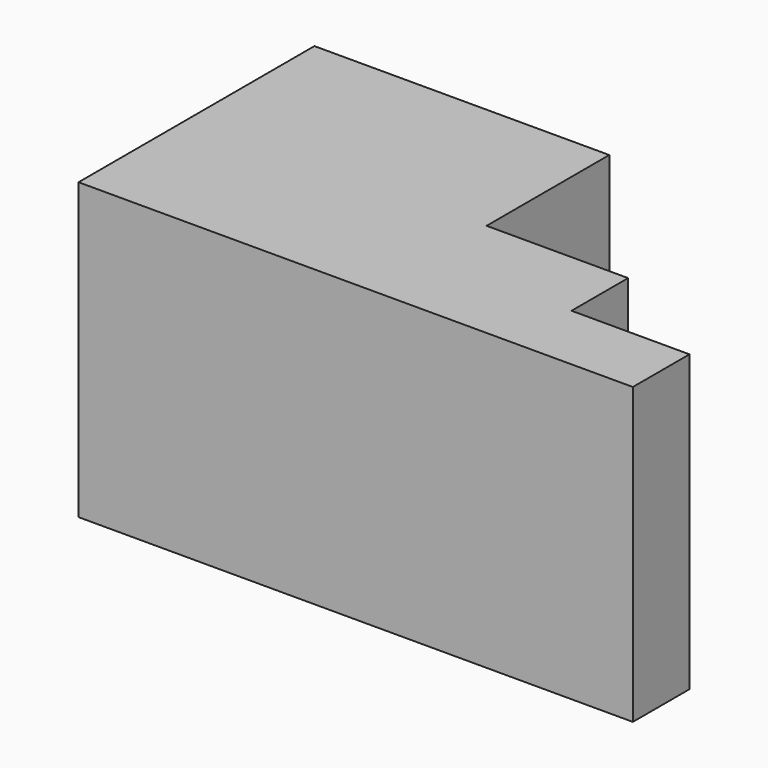
from build123d import *

# Parameters (mm, degrees)
F0_W     = 10
F0_H     = 6
F1_DEPTH = 25


with BuildPart() as f1:
    # F0 (on Top) → F1 (new body)
    with BuildSketch(Plane.XY):
        Polygon((-7.03125, 25), (-32.03125, 25), (-32.03125, 0), (-7.03125, 0), (-7.03125, 12), align=None)
        Polygon((4.96875, 12), (-7.03125, 12), (-7.03125, 0), (4.96875, 0), (4.96875, 6), align=None)
        with Locations((9.96875, 3)):
            Rectangle(F0_W, F0_H)
    extrude(amount=F1_DEPTH)


solid = f1.part
